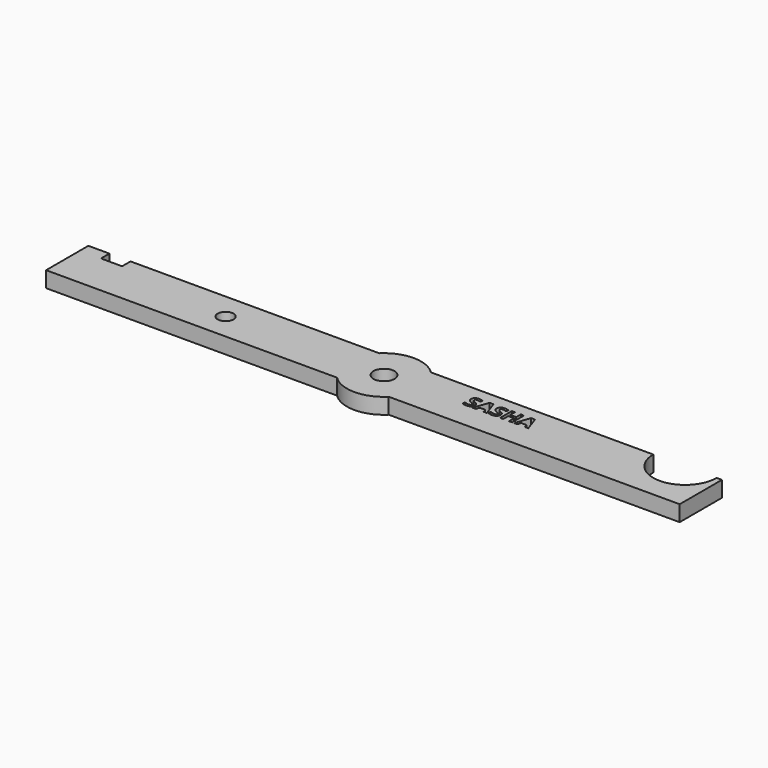
from build123d import *

# Parameters (mm, degrees)
F0_R     = 1.5
F0_R_2   = 2
F1_DEPTH = 3


with BuildPart() as f1:
    # F0 (on Top) → F1 (new body)
    with BuildSketch(Plane.XY):
        with BuildLine():
            Line((-56, 5), (-60, 5))
            Line((-60, 5), (-60, -5))
            Line((-60, -5), (-4.8989794856, -5))
            ThreePointArc((-4.8989794856, -5), (-7, 0), (-4.8989794856, 5))
            Line((-4.8989794856, 5), (-52, 5))
            Line((-52, 5), (-52, 3))
            Line((-52, 3), (-56, 3))
            Line((-56, 3), (-56, 5))
        make_face()
        with Locations((-30, 0)):
            Circle(F0_R, mode=Mode.SUBTRACT)
        with BuildLine():
            ThreePointArc((7, 0), (6.4534043883, -2.7117470016), (4.8989794856, -5))
            Line((4.8989794856, -5), (60, -5))
            Line((60, -5), (60, 5))
            Line((60, 5), (59, 5))
            ThreePointArc((59, 5), (53, -1), (47, 5))
            Line((47, 5), (4.8989794856, 5))
            ThreePointArc((4.8989794856, 5), (6.4534043883, 2.7117470016), (7, 0))
        make_face()
        with BuildLine():
            add(Edge.make_bspline(
                [(16.4754206125, 1.2379939809), (16.6207250703, 1.049862946), (16.6207250703, 0.7763846611)],
                knots=[0, 0, 0, 1, 1, 1], degree=2))
            add(Edge.make_bspline(
                [(16.6207250703, 0.7763846611), (16.6207250703, 0.3976753583), (16.3481644978, 0.1795657195)],
                knots=[0, 0, 0, 1, 1, 1], degree=2))
            add(Edge.make_bspline(
                [(16.3481644978, 0.1795657195), (16.0756039253, -0.0385439193), (15.5904399881, -0.0385439193)],
                knots=[0, 0, 0, 1, 1, 1], degree=2))
            add(Edge.make_bspline(
                [(15.5904399881, -0.0385439193), (15.1425963539, -0.0385439193), (14.798760121, 0.1303151559)],
                knots=[0, 0, 0, 1, 1, 1], degree=2))
            Line((14.798760121, 0.1303151559), (14.798760121, 0.6809425751))
            add(Edge.make_bspline(
                [(14.798760121, 0.6809425751), (15.0814155295, 0.5542982687), (15.2775000716, 0.5029063762)],
                knots=[0, 0, 0, 1, 1, 1], degree=2))
            add(Edge.make_bspline(
                [(15.2775000716, 0.5029063762), (15.4735846136, 0.4515144838), (15.6363256064, 0.4515144838)],
                knots=[0, 0, 0, 1, 1, 1], degree=2))
            add(Edge.make_bspline(
                [(15.6363256064, 0.4515144838), (15.8308806279, 0.4515144838), (15.9351939334, 0.5258491854)],
                knots=[0, 0, 0, 1, 1, 1], degree=2))
            add(Edge.make_bspline(
                [(15.9351939334, 0.5258491854), (16.0395072389, 0.6001838869), (16.0395072389, 0.7476296736)],
                knots=[0, 0, 0, 1, 1, 1], degree=2))
            add(Edge.make_bspline(
                [(16.0395072389, 0.7476296736), (16.0395072389, 0.8296119783), (15.9936216207, 0.8938518439)],
                knots=[0, 0, 0, 1, 1, 1], degree=2))
            add(Edge.make_bspline(
                [(15.9936216207, 0.8938518439), (15.9477360024, 0.9580917094), (15.858717903, 1.0171312049)],
                knots=[0, 0, 0, 1, 1, 1], degree=2))
            add(Edge.make_bspline(
                [(15.858717903, 1.0171312049), (15.7696998035, 1.0761707004), (15.4962215186, 1.2064858563)],
                knots=[0, 0, 0, 1, 1, 1], degree=2))
            add(Edge.make_bspline(
                [(15.4962215186, 1.2064858563), (15.2404856728, 1.3270120803), (15.1123118458, 1.4377493724)],
                knots=[0, 0, 0, 1, 1, 1], degree=2))
            add(Edge.make_bspline(
                [(15.1123118458, 1.4377493724), (14.9841380188, 1.5484866645), (14.9076619883, 1.6959324512)],
                knots=[0, 0, 0, 1, 1, 1], degree=2))
            add(Edge.make_bspline(
                [(14.9076619883, 1.6959324512), (14.8311859579, 1.8433782379), (14.8311859579, 2.0397686841)],
                knots=[0, 0, 0, 1, 1, 1], degree=2))
            add(Edge.make_bspline(
                [(14.8311859579, 2.0397686841), (14.8311859579, 2.4111362879), (15.082639146, 2.6231278443)],
                knots=[0, 0, 0, 1, 1, 1], degree=2))
            add(Edge.make_bspline(
                [(15.082639146, 2.6231278443), (15.3340923341, 2.8351194007), (15.7776533107, 2.8351194007)],
                knots=[0, 0, 0, 1, 1, 1], degree=2))
            add(Edge.make_bspline(
                [(15.7776533107, 2.8351194007), (15.9954570454, 2.8351194007), (16.1933770122, 2.7837275083)],
                knots=[0, 0, 0, 1, 1, 1], degree=2))
            add(Edge.make_bspline(
                [(16.1933770122, 2.7837275083), (16.391296979, 2.7323356158), (16.607265289, 2.6387289545)],
                knots=[0, 0, 0, 1, 1, 1], degree=2))
            Line((16.607265289, 2.6387289545), (16.416381117, 2.1774255389))
            add(Edge.make_bspline(
                [(16.416381117, 2.1774255389), (16.1924592998, 2.2691967754), (16.0462371296, 2.3055993659)],
                knots=[0, 0, 0, 1, 1, 1], degree=2))
            add(Edge.make_bspline(
                [(16.0462371296, 2.3055993659), (15.9000149594, 2.3420019564), (15.7586872551, 2.3420019564)],
                knots=[0, 0, 0, 1, 1, 1], degree=2))
            add(Edge.make_bspline(
                [(15.7586872551, 2.3420019564), (15.5904399881, 2.3420019564), (15.5005041763, 2.2636905012)],
                knots=[0, 0, 0, 1, 1, 1], degree=2))
            add(Edge.make_bspline(
                [(15.5005041763, 2.2636905012), (15.4105683645, 2.185379046), (15.4105683645, 2.0593465479)],
                knots=[0, 0, 0, 1, 1, 1], degree=2))
            add(Edge.make_bspline(
                [(15.4105683645, 2.0593465479), (15.4105683645, 1.9810350927), (15.446970955, 1.9226074054)],
                knots=[0, 0, 0, 1, 1, 1], degree=2))
            add(Edge.make_bspline(
                [(15.446970955, 1.9226074054), (15.4833735455, 1.8641797182), (15.5626027131, 1.8097287845)],
                knots=[0, 0, 0, 1, 1, 1], degree=2))
            add(Edge.make_bspline(
                [(15.5626027131, 1.8097287845), (15.6418318806, 1.7552778508), (15.9379470705, 1.6139501465)],
                knots=[0, 0, 0, 1, 1, 1], degree=2))
            add(Edge.make_bspline(
                [(15.9379470705, 1.6139501465), (16.3301161546, 1.4261250158), (16.4754206125, 1.2379939809)],
                knots=[0, 0, 0, 1, 1, 1], degree=2))
        make_face(mode=Mode.SUBTRACT)
        Polygon((19.4772577596, 0), (18.8385299533, 0), (18.6360214247, 0.665647369), (17.6167488909, 0.665647369), (17.4142403622, 0), (16.7755125559, 0), (17.7623592528, 2.8069762215), (18.4867402132, 2.8069762215), align=None, mode=Mode.SUBTRACT)
        with BuildLine():
            add(Edge.make_bspline(
                [(21.3337898747, 1.2379939809), (21.4790943325, 1.049862946), (21.4790943325, 0.7763846611)],
                knots=[0, 0, 0, 1, 1, 1], degree=2))
            add(Edge.make_bspline(
                [(21.4790943325, 0.7763846611), (21.4790943325, 0.3976753583), (21.20653376, 0.1795657195)],
                knots=[0, 0, 0, 1, 1, 1], degree=2))
            add(Edge.make_bspline(
                [(21.20653376, 0.1795657195), (20.9339731875, -0.0385439193), (20.4488092504, -0.0385439193)],
                knots=[0, 0, 0, 1, 1, 1], degree=2))
            add(Edge.make_bspline(
                [(20.4488092504, -0.0385439193), (20.0009656161, -0.0385439193), (19.6571293832, 0.1303151559)],
                knots=[0, 0, 0, 1, 1, 1], degree=2))
            Line((19.6571293832, 0.1303151559), (19.6571293832, 0.6809425751))
            add(Edge.make_bspline(
                [(19.6571293832, 0.6809425751), (19.9397847917, 0.5542982687), (20.1358693338, 0.5029063762)],
                knots=[0, 0, 0, 1, 1, 1], degree=2))
            add(Edge.make_bspline(
                [(20.1358693338, 0.5029063762), (20.3319538758, 0.4515144838), (20.4946948686, 0.4515144838)],
                knots=[0, 0, 0, 1, 1, 1], degree=2))
            add(Edge.make_bspline(
                [(20.4946948686, 0.4515144838), (20.6892498901, 0.4515144838), (20.7935631956, 0.5258491854)],
                knots=[0, 0, 0, 1, 1, 1], degree=2))
            add(Edge.make_bspline(
                [(20.7935631956, 0.5258491854), (20.8978765011, 0.6001838869), (20.8978765011, 0.7476296736)],
                knots=[0, 0, 0, 1, 1, 1], degree=2))
            add(Edge.make_bspline(
                [(20.8978765011, 0.7476296736), (20.8978765011, 0.8296119783), (20.8519908829, 0.8938518439)],
                knots=[0, 0, 0, 1, 1, 1], degree=2))
            add(Edge.make_bspline(
                [(20.8519908829, 0.8938518439), (20.8061052646, 0.9580917094), (20.7170871652, 1.0171312049)],
                knots=[0, 0, 0, 1, 1, 1], degree=2))
            add(Edge.make_bspline(
                [(20.7170871652, 1.0171312049), (20.6280690657, 1.0761707004), (20.3545907808, 1.2064858563)],
                knots=[0, 0, 0, 1, 1, 1], degree=2))
            add(Edge.make_bspline(
                [(20.3545907808, 1.2064858563), (20.098854935, 1.3270120803), (19.970681108, 1.4377493724)],
                knots=[0, 0, 0, 1, 1, 1], degree=2))
            add(Edge.make_bspline(
                [(19.970681108, 1.4377493724), (19.842507281, 1.5484866645), (19.7660312505, 1.6959324512)],
                knots=[0, 0, 0, 1, 1, 1], degree=2))
            add(Edge.make_bspline(
                [(19.7660312505, 1.6959324512), (19.6895552201, 1.8433782379), (19.6895552201, 2.0397686841)],
                knots=[0, 0, 0, 1, 1, 1], degree=2))
            add(Edge.make_bspline(
                [(19.6895552201, 2.0397686841), (19.6895552201, 2.4111362879), (19.9410084082, 2.6231278443)],
                knots=[0, 0, 0, 1, 1, 1], degree=2))
            add(Edge.make_bspline(
                [(19.9410084082, 2.6231278443), (20.1924615963, 2.8351194007), (20.6360225729, 2.8351194007)],
                knots=[0, 0, 0, 1, 1, 1], degree=2))
            add(Edge.make_bspline(
                [(20.6360225729, 2.8351194007), (20.8538263076, 2.8351194007), (21.0517462744, 2.7837275083)],
                knots=[0, 0, 0, 1, 1, 1], degree=2))
            add(Edge.make_bspline(
                [(21.0517462744, 2.7837275083), (21.2496662412, 2.7323356158), (21.4656345512, 2.6387289545)],
                knots=[0, 0, 0, 1, 1, 1], degree=2))
            Line((21.4656345512, 2.6387289545), (21.2747503792, 2.1774255389))
            add(Edge.make_bspline(
                [(21.2747503792, 2.1774255389), (21.050828562, 2.2691967754), (20.9046063918, 2.3055993659)],
                knots=[0, 0, 0, 1, 1, 1], degree=2))
            add(Edge.make_bspline(
                [(20.9046063918, 2.3055993659), (20.7583842216, 2.3420019564), (20.6170565173, 2.3420019564)],
                knots=[0, 0, 0, 1, 1, 1], degree=2))
            add(Edge.make_bspline(
                [(20.6170565173, 2.3420019564), (20.4488092504, 2.3420019564), (20.3588734386, 2.2636905012)],
                knots=[0, 0, 0, 1, 1, 1], degree=2))
            add(Edge.make_bspline(
                [(20.3588734386, 2.2636905012), (20.2689376267, 2.185379046), (20.2689376267, 2.0593465479)],
                knots=[0, 0, 0, 1, 1, 1], degree=2))
            add(Edge.make_bspline(
                [(20.2689376267, 2.0593465479), (20.2689376267, 1.9810350927), (20.3053402172, 1.9226074054)],
                knots=[0, 0, 0, 1, 1, 1], degree=2))
            add(Edge.make_bspline(
                [(20.3053402172, 1.9226074054), (20.3417428077, 1.8641797182), (20.4209719753, 1.8097287845)],
                knots=[0, 0, 0, 1, 1, 1], degree=2))
            add(Edge.make_bspline(
                [(20.4209719753, 1.8097287845), (20.5002011428, 1.7552778508), (20.7963163327, 1.6139501465)],
                knots=[0, 0, 0, 1, 1, 1], degree=2))
            add(Edge.make_bspline(
                [(20.7963163327, 1.6139501465), (21.1884854168, 1.4261250158), (21.3337898747, 1.2379939809)],
                knots=[0, 0, 0, 1, 1, 1], degree=2))
        make_face(mode=Mode.SUBTRACT)
        Polygon((24.2762816222, 2.7953518649), (24.2762816222, 0), (23.6852748589, 0), (23.6852748589, 1.2064858563), (22.5785137462, 1.2064858563), (22.5785137462, 0), (21.9856715582, 0), (21.9856715582, 2.7953518649), (22.5785137462, 2.7953518649), (22.5785137462, 1.6996033006), (23.6852748589, 1.6996033006), (23.6852748589, 2.7953518649), align=None, mode=Mode.SUBTRACT)
        Polygon((27.3316519906, 0), (26.6929241843, 0), (26.4904156556, 0.665647369), (25.4711431219, 0.665647369), (25.2686345932, 0), (24.6299067869, 0), (25.6167534838, 2.8069762215), (26.3411344442, 2.8069762215), align=None, mode=Mode.SUBTRACT)
        with BuildLine():
            ThreePointArc((-4.8989794856, 5), (-7, 0), (-4.8989794856, -5))
            Line((-4.8989794856, -5), (4.8989794856, -5))
            ThreePointArc((4.8989794856, -5), (6.4534043883, -2.7117470016), (7, 0))
            ThreePointArc((7, 0), (6.4534043883, 2.7117470016), (4.8989794856, 5))
            Line((4.8989794856, 5), (-4.8989794856, 5))
        make_face()
        Circle(F0_R_2, mode=Mode.SUBTRACT)
        with BuildLine():
            ThreePointArc((4.8989794856, 5), (0, 7), (-4.8989794856, 5))
            Line((-4.8989794856, 5), (4.8989794856, 5))
        make_face()
        with BuildLine():
            Line((4.8989794856, -5), (-4.8989794856, -5))
            ThreePointArc((-4.8989794856, -5), (0, -7), (4.8989794856, -5))
        make_face()
    extrude(amount=F1_DEPTH)


solid = f1.part
